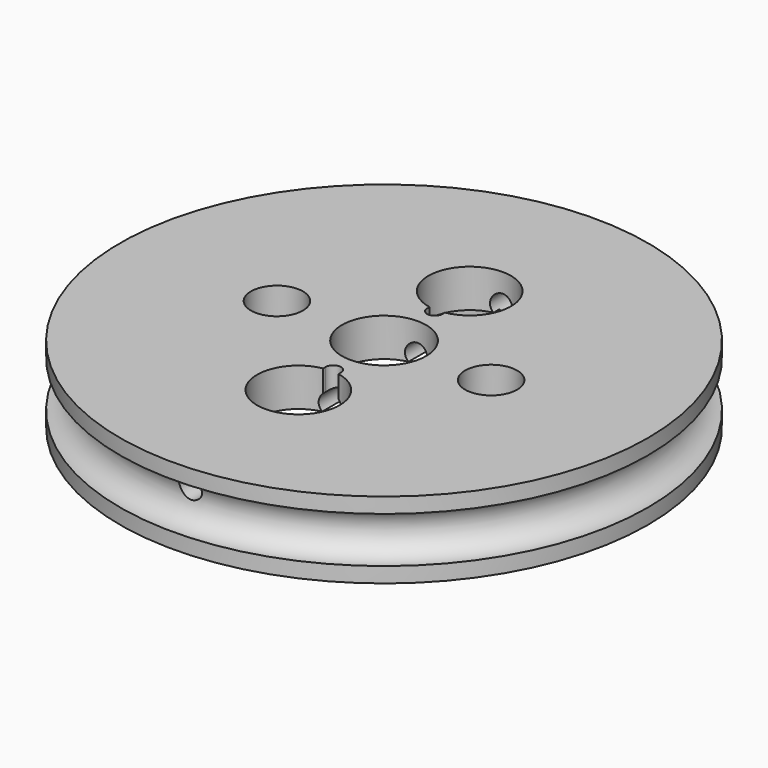
from build123d import *

# Parameters (mm, degrees)
SKETCH065_R             = 17.25
SKETCH065_R_2           = 2.75
SKETCH065_R_3           = 1.7
PAD030_DEPTH            = 5
SKETCH066_R             = 2.7
POCKET034_DEPTH         = 101.092794
POLARPATTERN006_COUNT   = 2
SKETCH068_R             = 0.75
POCKET035_DEPTH         = 17.251
POCKET035_DEPTH_BACK    = 17.251
SKETCH078_R             = 10.15
POCKET045_DEPTH         = 2.5
POCKET046_DEPTH         = 103.092794
BODY017_PLACEMENT_ANGLE = 270


with BuildPart() as part:
    # Sketch065 → Pad030 (new body)
    with BuildSketch(Plane.XZ):
        Circle(SKETCH065_R)
        Circle(SKETCH065_R_2, mode=Mode.SUBTRACT)
        with Locations((0, 7)):
            Circle(SKETCH065_R_3, mode=Mode.SUBTRACT)
        with Locations((-7, 0)):
            Circle(SKETCH065_R_3, mode=Mode.SUBTRACT)
        with Locations((0, -7)):
            Circle(SKETCH065_R_3, mode=Mode.SUBTRACT)
        with Locations((7, 0)):
            Circle(SKETCH065_R_3, mode=Mode.SUBTRACT)
    extrude(amount=PAD030_DEPTH)

    # Sketch066 → Pocket034 (cut, through all)
    with BuildSketch(Plane.XZ.offset(2)):
        with Locations((0, 7)):
            Circle(SKETCH066_R)
    pocket034 = extrude(amount=POCKET034_DEPTH, mode=Mode.SUBTRACT)

    # PolarPattern006: Pocket034 ×2 about axis
    polarpattern006_axis = Axis((0, -2, 0), (0, -1, 0))
    for i in range(1, POLARPATTERN006_COUNT):
        add(pocket034.rotate(polarpattern006_axis, i * 360 / POLARPATTERN006_COUNT), mode=Mode.SUBTRACT)

    # Sketch067 → Groove004 (revolve, cut)
    with BuildSketch(Plane.YZ):
        with BuildLine():
            ThreePointArc((-4, 17.25), (-2.5, 15.75), (-1, 17.25))
            Line((-4, 17.25), (-1, 17.25))
        make_face()
    revolve(axis=Axis((0, 0, 0), (0, 1, 0)), mode=Mode.SUBTRACT)

    # Sketch068 → Pocket035 (cut, two sides)
    with BuildSketch(Plane.XY) as pocket035_sk:
        with Locations((0, -3)):
            Circle(SKETCH068_R)
    extrude(amount=-POCKET035_DEPTH, mode=Mode.SUBTRACT)
    extrude(pocket035_sk.sketch, amount=POCKET035_DEPTH_BACK, mode=Mode.SUBTRACT)

    # Sketch078 → Pocket045 (cut)
    with BuildSketch(Plane.XZ):
        Circle(SKETCH078_R)
    extrude(amount=POCKET045_DEPTH, mode=Mode.SUBTRACT)

    # Sketch080 → Pocket046 (cut, through all)
    with BuildSketch(Plane.XZ):
        with BuildLine():
            ThreePointArc((-0.5, 4.146692), (4e-06, 3.646692), (0.5, 4.1467))
            Line((0.5, 4.1467), (0.5, 4.3467))
            Line((0.5, 4.3467), (-0.5, 4.3467))
            Line((-0.5, 4.3467), (-0.5, 4.146692))
        make_face()
    pocket046 = extrude(amount=POCKET046_DEPTH, mode=Mode.SUBTRACT)

    # Mirrored008: Pocket046 across Sketch080 H_Axis
    add(pocket046.mirror(Plane(origin=(0, 0, 0), x_dir=(0, -1, 0), z_dir=(0, 0, 1))), mode=Mode.SUBTRACT)


with BuildPart() as part_1:
    # Body017 placement: moved
    add(part.part.moved(Location((0, 0, 2.5))).rotate(Axis((0, 0, 2.5), (1, 0, 0)), BODY017_PLACEMENT_ANGLE))


solid = part_1.part
